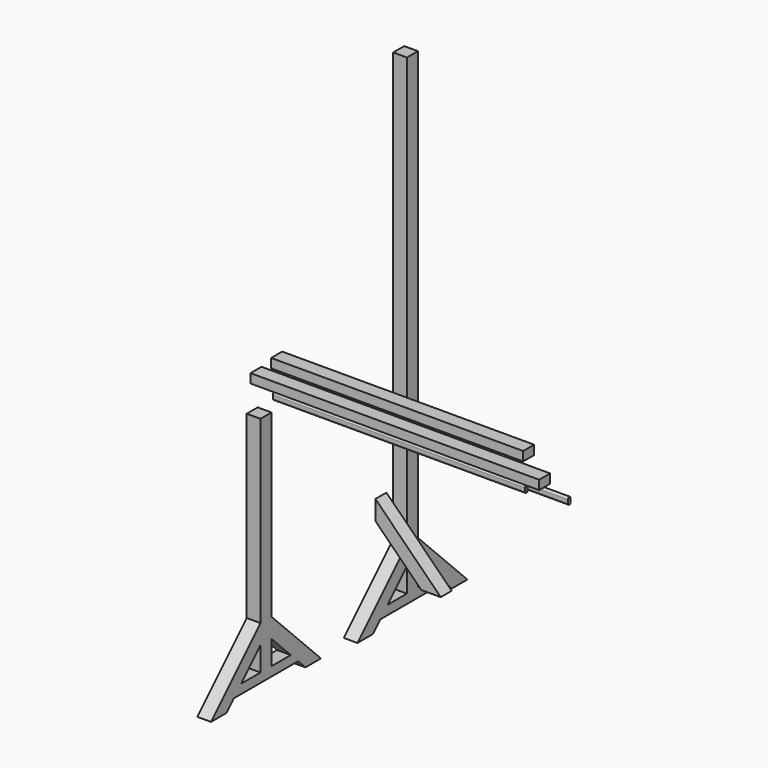
from build123d import *

# Parameters (mm, degrees)
F1_DEPTH  = 1100
F4_DEPTH  = 60
F6_DEPTH  = 1260
F7_W      = 60
F7_H      = 40
F9_DEPTH  = 1100
F8_W      = 60
F8_H      = 40
F10_DEPTH = 1260
F12_DEPTH = 60


with BuildPart() as f1:
    # F0 (on Right) → F1 (new body)
    with BuildSketch(Plane.YZ):
        with BuildLine():
            Line((-7.5, 15), (-7.5, 0))
            ThreePointArc((-7.5, 0), (0, -7.5), (7.5, 0))
            Line((7.5, 0), (7.5, 15))
            ThreePointArc((7.5, 15), (0, 22.5), (-7.5, 15))
        make_face()
        with BuildLine():
            ThreePointArc((6.5, 0), (0, -6.5), (-6.5, 0))
            Line((-6.5, 0), (-6.5, 15))
            ThreePointArc((-6.5, 15), (0, 21.5), (6.5, 15))
            Line((6.5, 15), (6.5, 0))
        make_face(mode=Mode.SUBTRACT)
    extrude(amount=F1_DEPTH)


with BuildPart() as f4:
    # F2 (on Right) + F3 (on Right) → F4 (new body)
    with BuildSketch(Plane.YZ):
        Polygon((-90.259336, -785), (-90.259336, 0), (-150.259336, 0), (-150.259336, -785), (-420.259336, -1055), (-335.406522, -1055), (-295.406522, -1015), (54.88785, -1015), (94.88785, -1055), (179.740664, -1055), align=None)
        Polygon((-255.406522, -975), (-150.259336, -869.852814), (-150.259336, -975), align=None, mode=Mode.SUBTRACT)
        Polygon((-90.259336, -975), (-90.259336, -869.852814), (14.88785, -975), align=None, mode=Mode.SUBTRACT)
    with BuildSketch(Plane.YZ):
        Polygon((708.7354, -806.585632), (708.7354, -21.585632), (708.7354, 1063.414368), (648.7354, 1063.414368), (648.7354, -21.585632), (648.7354, -806.585632), (378.7354, -1076.585632), (463.588213, -1076.585632), (503.588213, -1036.585632), (853.882586, -1036.585632), (893.882586, -1076.585632), (978.7354, -1076.585632), align=None)
        Polygon((543.588213, -996.585632), (648.7354, -891.438446), (648.7354, -996.585632), align=None, mode=Mode.SUBTRACT)
        Polygon((708.7354, -996.585632), (708.7354, -891.438446), (813.882586, -996.585632), align=None, mode=Mode.SUBTRACT)
    extrude(amount=F4_DEPTH)


with BuildPart() as f6:
    # F5 (on Right) → F6 (new body)
    with BuildSketch(Plane.YZ):
        with BuildLine():
            Line((27.457878, 7.5), (27.457878, -7.5))
            ThreePointArc((27.457878, -7.5), (34.957878, -15), (42.457878, -7.5))
            Line((42.457878, -7.5), (42.457878, 7.5))
            ThreePointArc((42.457878, 7.5), (34.957878, 15), (27.457878, 7.5))
        make_face()
        with BuildLine():
            ThreePointArc((41.457878, -7.5), (34.957878, -14), (28.457878, -7.5))
            Line((28.457878, -7.5), (28.457878, 7.5))
            ThreePointArc((28.457878, 7.5), (34.957878, 14), (41.457878, 7.5))
            Line((41.457878, 7.5), (41.457878, -7.5))
        make_face(mode=Mode.SUBTRACT)
    extrude(amount=F6_DEPTH)


with BuildPart() as f9:
    # F7 (on Right) → F9 (new body)
    with BuildSketch(Plane.YZ):
        with Locations((12.94594, 140.236716)):
            Rectangle(F7_W, F7_H)
    extrude(amount=F9_DEPTH)


with BuildPart() as f10:
    # F8 (on Right) → F10 (new body)
    with BuildSketch(Plane.YZ):
        with Locations((-99.866573, 127.754258)):
            Rectangle(F8_W, F8_H)
    extrude(amount=F10_DEPTH)


with BuildPart() as f12:
    # F11 (on Front) → F12 (new body)
    with BuildSketch(Plane.XZ):
        Polygon((774.330263, -489.796865), (489.477449, -204.944052), (489.477449, -289.796865), (689.477449, -489.796865), align=None)
    extrude(amount=F12_DEPTH)


solid = Compound([f1.part, f4.part, f6.part, f9.part, f10.part, f12.part])
